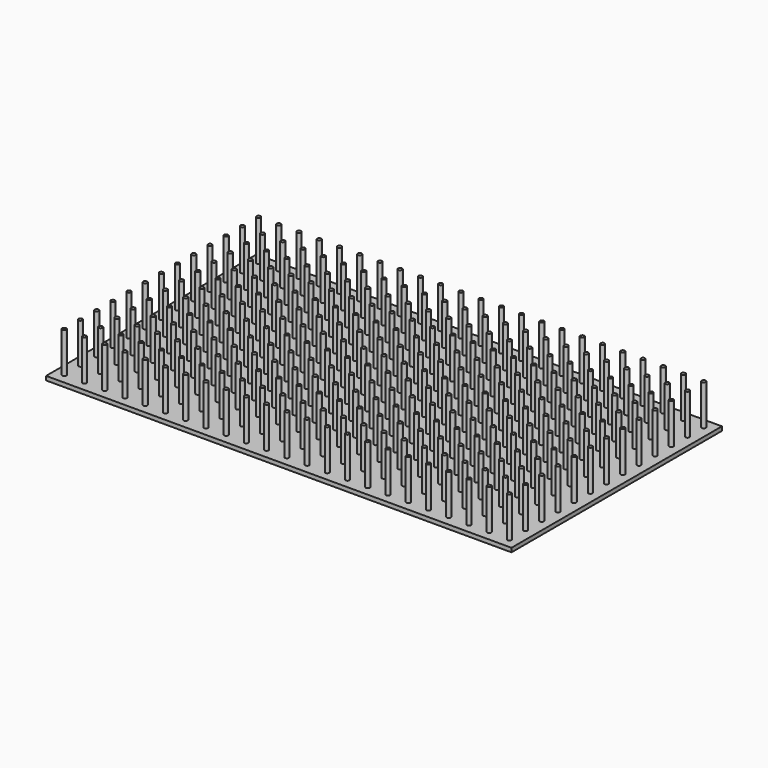
from build123d import *

# Parameters (mm, degrees)
F0_W     = 115
F0_H     = 65
F1_DEPTH = 1
F2_R     = 0.5
F3_DEPTH = 10


with BuildPart() as f1:
    # F0 (on Top) → F1 (new body)
    with BuildSketch(Plane.XY):
        with Locations((57.5, 32.5)):
            Rectangle(F0_W, F0_H)
    extrude(amount=F1_DEPTH)

    # F2 (on face) → F3 (join)
    with BuildSketch(Plane.XY.offset(1)):
        with Locations((2.5, 2.5)):
            Circle(F2_R)
        with Locations((2.5, 7.5)):
            Circle(F2_R)
        with Locations((2.5, 12.5)):
            Circle(F2_R)
        with Locations((2.5, 17.5)):
            Circle(F2_R)
        with Locations((2.5, 22.5)):
            Circle(F2_R)
        with Locations((2.5, 27.5)):
            Circle(F2_R)
        with Locations((2.5, 32.5)):
            Circle(F2_R)
        with Locations((2.5, 37.5)):
            Circle(F2_R)
        with Locations((2.5, 42.5)):
            Circle(F2_R)
        with Locations((2.5, 47.5)):
            Circle(F2_R)
        with Locations((2.5, 52.5)):
            Circle(F2_R)
        with Locations((2.5, 57.5)):
            Circle(F2_R)
        with Locations((2.5, 62.5)):
            Circle(F2_R)
        with Locations((7.5, 2.5)):
            Circle(F2_R)
        with Locations((7.5, 7.5)):
            Circle(F2_R)
        with Locations((7.5, 12.5)):
            Circle(F2_R)
        with Locations((7.5, 17.5)):
            Circle(F2_R)
        with Locations((7.5, 22.5)):
            Circle(F2_R)
        with Locations((7.5, 27.5)):
            Circle(F2_R)
        with Locations((7.5, 32.5)):
            Circle(F2_R)
        with Locations((7.5, 37.5)):
            Circle(F2_R)
        with Locations((7.5, 42.5)):
            Circle(F2_R)
        with Locations((7.5, 47.5)):
            Circle(F2_R)
        with Locations((7.5, 52.5)):
            Circle(F2_R)
        with Locations((7.5, 57.5)):
            Circle(F2_R)
        with Locations((7.5, 62.5)):
            Circle(F2_R)
        with Locations((12.5, 2.5)):
            Circle(F2_R)
        with Locations((12.5, 7.5)):
            Circle(F2_R)
        with Locations((12.5, 12.5)):
            Circle(F2_R)
        with Locations((12.5, 17.5)):
            Circle(F2_R)
        with Locations((12.5, 22.5)):
            Circle(F2_R)
        with Locations((12.5, 27.5)):
            Circle(F2_R)
        with Locations((12.5, 32.5)):
            Circle(F2_R)
        with Locations((12.5, 37.5)):
            Circle(F2_R)
        with Locations((12.5, 42.5)):
            Circle(F2_R)
        with Locations((12.5, 47.5)):
            Circle(F2_R)
        with Locations((12.5, 52.5)):
            Circle(F2_R)
        with Locations((12.5, 57.5)):
            Circle(F2_R)
        with Locations((12.5, 62.5)):
            Circle(F2_R)
        with Locations((17.5, 2.5)):
            Circle(F2_R)
        with Locations((17.5, 7.5)):
            Circle(F2_R)
        with Locations((17.5, 12.5)):
            Circle(F2_R)
        with Locations((17.5, 17.5)):
            Circle(F2_R)
        with Locations((17.5, 22.5)):
            Circle(F2_R)
        with Locations((17.5, 27.5)):
            Circle(F2_R)
        with Locations((17.5, 32.5)):
            Circle(F2_R)
        with Locations((17.5, 37.5)):
            Circle(F2_R)
        with Locations((17.5, 42.5)):
            Circle(F2_R)
        with Locations((17.5, 47.5)):
            Circle(F2_R)
        with Locations((17.5, 52.5)):
            Circle(F2_R)
        with Locations((17.5, 57.5)):
            Circle(F2_R)
        with Locations((17.5, 62.5)):
            Circle(F2_R)
        with Locations((22.5, 2.5)):
            Circle(F2_R)
        with Locations((22.5, 7.5)):
            Circle(F2_R)
        with Locations((22.5, 12.5)):
            Circle(F2_R)
        with Locations((22.5, 17.5)):
            Circle(F2_R)
        with Locations((22.5, 22.5)):
            Circle(F2_R)
        with Locations((22.5, 27.5)):
            Circle(F2_R)
        with Locations((22.5, 32.5)):
            Circle(F2_R)
        with Locations((22.5, 37.5)):
            Circle(F2_R)
        with Locations((22.5, 42.5)):
            Circle(F2_R)
        with Locations((22.5, 47.5)):
            Circle(F2_R)
        with Locations((22.5, 52.5)):
            Circle(F2_R)
        with Locations((22.5, 57.5)):
            Circle(F2_R)
        with Locations((22.5, 62.5)):
            Circle(F2_R)
        with Locations((27.5, 2.5)):
            Circle(F2_R)
        with Locations((27.5, 7.5)):
            Circle(F2_R)
        with Locations((27.5, 12.5)):
            Circle(F2_R)
        with Locations((27.5, 17.5)):
            Circle(F2_R)
        with Locations((27.5, 22.5)):
            Circle(F2_R)
        with Locations((27.5, 27.5)):
            Circle(F2_R)
        with Locations((27.5, 32.5)):
            Circle(F2_R)
        with Locations((27.5, 37.5)):
            Circle(F2_R)
        with Locations((27.5, 42.5)):
            Circle(F2_R)
        with Locations((27.5, 47.5)):
            Circle(F2_R)
        with Locations((27.5, 52.5)):
            Circle(F2_R)
        with Locations((27.5, 57.5)):
            Circle(F2_R)
        with Locations((27.5, 62.5)):
            Circle(F2_R)
        with Locations((32.5, 2.5)):
            Circle(F2_R)
        with Locations((32.5, 7.5)):
            Circle(F2_R)
        with Locations((32.5, 12.5)):
            Circle(F2_R)
        with Locations((32.5, 17.5)):
            Circle(F2_R)
        with Locations((32.5, 22.5)):
            Circle(F2_R)
        with Locations((32.5, 27.5)):
            Circle(F2_R)
        with Locations((32.5, 32.5)):
            Circle(F2_R)
        with Locations((32.5, 37.5)):
            Circle(F2_R)
        with Locations((32.5, 42.5)):
            Circle(F2_R)
        with Locations((32.5, 47.5)):
            Circle(F2_R)
        with Locations((32.5, 52.5)):
            Circle(F2_R)
        with Locations((32.5, 57.5)):
            Circle(F2_R)
        with Locations((32.5, 62.5)):
            Circle(F2_R)
        with Locations((37.5, 2.5)):
            Circle(F2_R)
        with Locations((37.5, 7.5)):
            Circle(F2_R)
        with Locations((37.5, 12.5)):
            Circle(F2_R)
        with Locations((37.5, 17.5)):
            Circle(F2_R)
        with Locations((37.5, 22.5)):
            Circle(F2_R)
        with Locations((37.5, 27.5)):
            Circle(F2_R)
        with Locations((37.5, 32.5)):
            Circle(F2_R)
        with Locations((37.5, 37.5)):
            Circle(F2_R)
        with Locations((37.5, 42.5)):
            Circle(F2_R)
        with Locations((37.5, 47.5)):
            Circle(F2_R)
        with Locations((37.5, 52.5)):
            Circle(F2_R)
        with Locations((37.5, 57.5)):
            Circle(F2_R)
        with Locations((37.5, 62.5)):
            Circle(F2_R)
        with Locations((42.5, 2.5)):
            Circle(F2_R)
        with Locations((42.5, 7.5)):
            Circle(F2_R)
        with Locations((42.5, 12.5)):
            Circle(F2_R)
        with Locations((42.5, 17.5)):
            Circle(F2_R)
        with Locations((42.5, 22.5)):
            Circle(F2_R)
        with Locations((42.5, 27.5)):
            Circle(F2_R)
        with Locations((42.5, 32.5)):
            Circle(F2_R)
        with Locations((42.5, 37.5)):
            Circle(F2_R)
        with Locations((42.5, 42.5)):
            Circle(F2_R)
        with Locations((42.5, 47.5)):
            Circle(F2_R)
        with Locations((42.5, 52.5)):
            Circle(F2_R)
        with Locations((42.5, 57.5)):
            Circle(F2_R)
        with Locations((42.5, 62.5)):
            Circle(F2_R)
        with Locations((47.5, 2.5)):
            Circle(F2_R)
        with Locations((47.5, 7.5)):
            Circle(F2_R)
        with Locations((47.5, 12.5)):
            Circle(F2_R)
        with Locations((47.5, 17.5)):
            Circle(F2_R)
        with Locations((47.5, 22.5)):
            Circle(F2_R)
        with Locations((47.5, 27.5)):
            Circle(F2_R)
        with Locations((47.5, 32.5)):
            Circle(F2_R)
        with Locations((47.5, 37.5)):
            Circle(F2_R)
        with Locations((47.5, 42.5)):
            Circle(F2_R)
        with Locations((47.5, 47.5)):
            Circle(F2_R)
        with Locations((47.5, 52.5)):
            Circle(F2_R)
        with Locations((47.5, 57.5)):
            Circle(F2_R)
        with Locations((47.5, 62.5)):
            Circle(F2_R)
        with Locations((52.5, 2.5)):
            Circle(F2_R)
        with Locations((52.5, 7.5)):
            Circle(F2_R)
        with Locations((52.5, 12.5)):
            Circle(F2_R)
        with Locations((52.5, 17.5)):
            Circle(F2_R)
        with Locations((52.5, 22.5)):
            Circle(F2_R)
        with Locations((52.5, 27.5)):
            Circle(F2_R)
        with Locations((52.5, 32.5)):
            Circle(F2_R)
        with Locations((52.5, 37.5)):
            Circle(F2_R)
        with Locations((52.5, 42.5)):
            Circle(F2_R)
        with Locations((52.5, 47.5)):
            Circle(F2_R)
        with Locations((52.5, 52.5)):
            Circle(F2_R)
        with Locations((52.5, 57.5)):
            Circle(F2_R)
        with Locations((52.5, 62.5)):
            Circle(F2_R)
        with Locations((57.5, 2.5)):
            Circle(F2_R)
        with Locations((57.5, 7.5)):
            Circle(F2_R)
        with Locations((57.5, 12.5)):
            Circle(F2_R)
        with Locations((57.5, 17.5)):
            Circle(F2_R)
        with Locations((57.5, 22.5)):
            Circle(F2_R)
        with Locations((57.5, 27.5)):
            Circle(F2_R)
        with Locations((57.5, 32.5)):
            Circle(F2_R)
        with Locations((57.5, 37.5)):
            Circle(F2_R)
        with Locations((57.5, 42.5)):
            Circle(F2_R)
        with Locations((57.5, 47.5)):
            Circle(F2_R)
        with Locations((57.5, 52.5)):
            Circle(F2_R)
        with Locations((57.5, 57.5)):
            Circle(F2_R)
        with Locations((57.5, 62.5)):
            Circle(F2_R)
        with Locations((62.5, 2.5)):
            Circle(F2_R)
        with Locations((62.5, 7.5)):
            Circle(F2_R)
        with Locations((62.5, 12.5)):
            Circle(F2_R)
        with Locations((62.5, 17.5)):
            Circle(F2_R)
        with Locations((62.5, 22.5)):
            Circle(F2_R)
        with Locations((62.5, 27.5)):
            Circle(F2_R)
        with Locations((62.5, 32.5)):
            Circle(F2_R)
        with Locations((62.5, 37.5)):
            Circle(F2_R)
        with Locations((62.5, 42.5)):
            Circle(F2_R)
        with Locations((62.5, 47.5)):
            Circle(F2_R)
        with Locations((62.5, 52.5)):
            Circle(F2_R)
        with Locations((62.5, 57.5)):
            Circle(F2_R)
        with Locations((62.5, 62.5)):
            Circle(F2_R)
        with Locations((67.5, 2.5)):
            Circle(F2_R)
        with Locations((67.5, 7.5)):
            Circle(F2_R)
        with Locations((67.5, 12.5)):
            Circle(F2_R)
        with Locations((67.5, 17.5)):
            Circle(F2_R)
        with Locations((67.5, 22.5)):
            Circle(F2_R)
        with Locations((67.5, 27.5)):
            Circle(F2_R)
        with Locations((67.5, 32.5)):
            Circle(F2_R)
        with Locations((67.5, 37.5)):
            Circle(F2_R)
        with Locations((67.5, 42.5)):
            Circle(F2_R)
        with Locations((67.5, 47.5)):
            Circle(F2_R)
        with Locations((67.5, 52.5)):
            Circle(F2_R)
        with Locations((67.5, 57.5)):
            Circle(F2_R)
        with Locations((67.5, 62.5)):
            Circle(F2_R)
        with Locations((72.5, 2.5)):
            Circle(F2_R)
        with Locations((72.5, 7.5)):
            Circle(F2_R)
        with Locations((72.5, 12.5)):
            Circle(F2_R)
        with Locations((72.5, 17.5)):
            Circle(F2_R)
        with Locations((72.5, 22.5)):
            Circle(F2_R)
        with Locations((72.5, 27.5)):
            Circle(F2_R)
        with Locations((72.5, 32.5)):
            Circle(F2_R)
        with Locations((72.5, 37.5)):
            Circle(F2_R)
        with Locations((72.5, 42.5)):
            Circle(F2_R)
        with Locations((72.5, 47.5)):
            Circle(F2_R)
        with Locations((72.5, 52.5)):
            Circle(F2_R)
        with Locations((72.5, 57.5)):
            Circle(F2_R)
        with Locations((72.5, 62.5)):
            Circle(F2_R)
        with Locations((77.5, 2.5)):
            Circle(F2_R)
        with Locations((77.5, 7.5)):
            Circle(F2_R)
        with Locations((77.5, 12.5)):
            Circle(F2_R)
        with Locations((77.5, 17.5)):
            Circle(F2_R)
        with Locations((77.5, 22.5)):
            Circle(F2_R)
        with Locations((77.5, 27.5)):
            Circle(F2_R)
        with Locations((77.5, 32.5)):
            Circle(F2_R)
        with Locations((77.5, 37.5)):
            Circle(F2_R)
        with Locations((77.5, 42.5)):
            Circle(F2_R)
        with Locations((77.5, 47.5)):
            Circle(F2_R)
        with Locations((77.5, 52.5)):
            Circle(F2_R)
        with Locations((77.5, 57.5)):
            Circle(F2_R)
        with Locations((77.5, 62.5)):
            Circle(F2_R)
        with Locations((82.5, 2.5)):
            Circle(F2_R)
        with Locations((82.5, 7.5)):
            Circle(F2_R)
        with Locations((82.5, 12.5)):
            Circle(F2_R)
        with Locations((82.5, 17.5)):
            Circle(F2_R)
        with Locations((82.5, 22.5)):
            Circle(F2_R)
        with Locations((82.5, 27.5)):
            Circle(F2_R)
        with Locations((82.5, 32.5)):
            Circle(F2_R)
        with Locations((82.5, 37.5)):
            Circle(F2_R)
        with Locations((82.5, 42.5)):
            Circle(F2_R)
        with Locations((82.5, 47.5)):
            Circle(F2_R)
        with Locations((82.5, 52.5)):
            Circle(F2_R)
        with Locations((82.5, 57.5)):
            Circle(F2_R)
        with Locations((82.5, 62.5)):
            Circle(F2_R)
        with Locations((87.5, 2.5)):
            Circle(F2_R)
        with Locations((87.5, 7.5)):
            Circle(F2_R)
        with Locations((87.5, 12.5)):
            Circle(F2_R)
        with Locations((87.5, 17.5)):
            Circle(F2_R)
        with Locations((87.5, 22.5)):
            Circle(F2_R)
        with Locations((87.5, 27.5)):
            Circle(F2_R)
        with Locations((87.5, 32.5)):
            Circle(F2_R)
        with Locations((87.5, 37.5)):
            Circle(F2_R)
        with Locations((87.5, 42.5)):
            Circle(F2_R)
        with Locations((87.5, 47.5)):
            Circle(F2_R)
        with Locations((87.5, 52.5)):
            Circle(F2_R)
        with Locations((87.5, 57.5)):
            Circle(F2_R)
        with Locations((87.5, 62.5)):
            Circle(F2_R)
        with Locations((92.5, 2.5)):
            Circle(F2_R)
        with Locations((92.5, 7.5)):
            Circle(F2_R)
        with Locations((92.5, 12.5)):
            Circle(F2_R)
        with Locations((92.5, 17.5)):
            Circle(F2_R)
        with Locations((92.5, 22.5)):
            Circle(F2_R)
        with Locations((92.5, 27.5)):
            Circle(F2_R)
        with Locations((92.5, 32.5)):
            Circle(F2_R)
        with Locations((92.5, 37.5)):
            Circle(F2_R)
        with Locations((92.5, 42.5)):
            Circle(F2_R)
        with Locations((92.5, 47.5)):
            Circle(F2_R)
        with Locations((92.5, 52.5)):
            Circle(F2_R)
        with Locations((92.5, 57.5)):
            Circle(F2_R)
        with Locations((92.5, 62.5)):
            Circle(F2_R)
        with Locations((97.5, 2.5)):
            Circle(F2_R)
        with Locations((97.5, 7.5)):
            Circle(F2_R)
        with Locations((97.5, 12.5)):
            Circle(F2_R)
        with Locations((97.5, 17.5)):
            Circle(F2_R)
        with Locations((97.5, 22.5)):
            Circle(F2_R)
        with Locations((97.5, 27.5)):
            Circle(F2_R)
        with Locations((97.5, 32.5)):
            Circle(F2_R)
        with Locations((97.5, 37.5)):
            Circle(F2_R)
        with Locations((97.5, 42.5)):
            Circle(F2_R)
        with Locations((97.5, 47.5)):
            Circle(F2_R)
        with Locations((97.5, 52.5)):
            Circle(F2_R)
        with Locations((97.5, 57.5)):
            Circle(F2_R)
        with Locations((97.5, 62.5)):
            Circle(F2_R)
        with Locations((102.5, 2.5)):
            Circle(F2_R)
        with Locations((102.5, 7.5)):
            Circle(F2_R)
        with Locations((102.5, 12.5)):
            Circle(F2_R)
        with Locations((102.5, 17.5)):
            Circle(F2_R)
        with Locations((102.5, 22.5)):
            Circle(F2_R)
        with Locations((102.5, 27.5)):
            Circle(F2_R)
        with Locations((102.5, 32.5)):
            Circle(F2_R)
        with Locations((102.5, 37.5)):
            Circle(F2_R)
        with Locations((102.5, 42.5)):
            Circle(F2_R)
        with Locations((102.5, 47.5)):
            Circle(F2_R)
        with Locations((102.5, 52.5)):
            Circle(F2_R)
        with Locations((102.5, 57.5)):
            Circle(F2_R)
        with Locations((102.5, 62.5)):
            Circle(F2_R)
        with Locations((107.5, 2.5)):
            Circle(F2_R)
        with Locations((107.5, 7.5)):
            Circle(F2_R)
        with Locations((107.5, 12.5)):
            Circle(F2_R)
        with Locations((107.5, 17.5)):
            Circle(F2_R)
        with Locations((107.5, 22.5)):
            Circle(F2_R)
        with Locations((107.5, 27.5)):
            Circle(F2_R)
        with Locations((107.5, 32.5)):
            Circle(F2_R)
        with Locations((107.5, 37.5)):
            Circle(F2_R)
        with Locations((107.5, 42.5)):
            Circle(F2_R)
        with Locations((107.5, 47.5)):
            Circle(F2_R)
        with Locations((107.5, 52.5)):
            Circle(F2_R)
        with Locations((107.5, 57.5)):
            Circle(F2_R)
        with Locations((107.5, 62.5)):
            Circle(F2_R)
        with Locations((112.5, 2.5)):
            Circle(F2_R)
        with Locations((112.5, 7.5)):
            Circle(F2_R)
        with Locations((112.5, 12.5)):
            Circle(F2_R)
        with Locations((112.5, 17.5)):
            Circle(F2_R)
        with Locations((112.5, 22.5)):
            Circle(F2_R)
        with Locations((112.5, 27.5)):
            Circle(F2_R)
        with Locations((112.5, 32.5)):
            Circle(F2_R)
        with Locations((112.5, 37.5)):
            Circle(F2_R)
        with Locations((112.5, 42.5)):
            Circle(F2_R)
        with Locations((112.5, 47.5)):
            Circle(F2_R)
        with Locations((112.5, 52.5)):
            Circle(F2_R)
        with Locations((112.5, 57.5)):
            Circle(F2_R)
        with Locations((112.5, 62.5)):
            Circle(F2_R)
    extrude(amount=F3_DEPTH)


solid = f1.part
